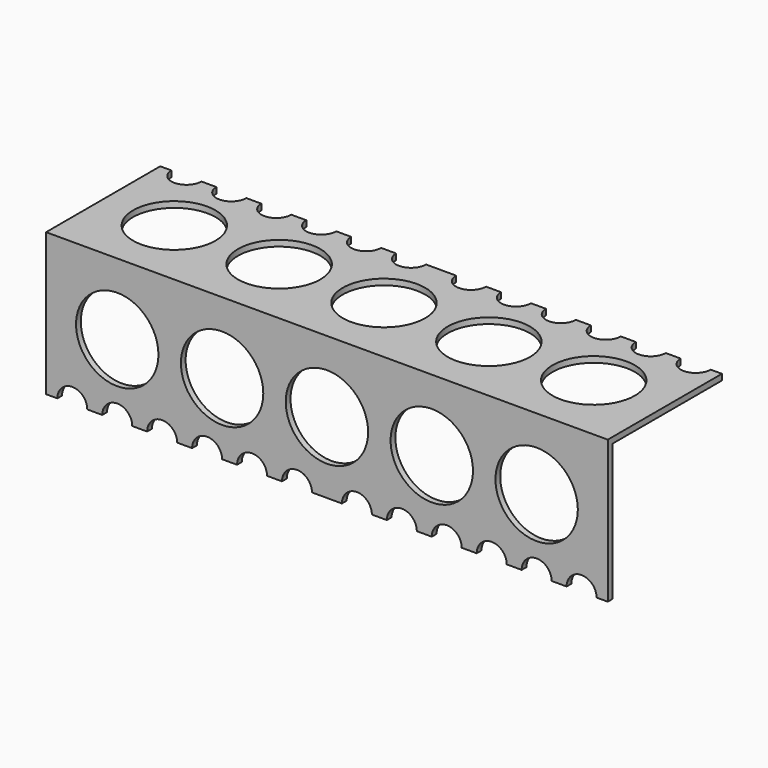
from build123d import *

# Parameters (mm, degrees)
F1_DEPTH = 150
F2_R     = 11
F3_DEPTH = 38.101
F4_R     = 11
F5_DEPTH = 38.101


with BuildPart() as f1:
    # F0 (on Right) → F1 (new body)
    with BuildSketch(Plane.YZ):
        Polygon((0, 38.1), (0, 0), (1.5875, 0), (1.5875, 36.5125), (38.1, 36.5125), (38.1, 38.1), align=None)
    extrude(amount=F1_DEPTH)

    # F2 (on face) → F3 (cut, through all)
    with BuildSketch(Plane.XZ):
        with Locations((75, 19.05)):
            Circle(F2_R)
        with Locations((103, 19.05)):
            Circle(F2_R)
        with Locations((131, 19.05)):
            Circle(F2_R)
        with Locations((47, 19.05)):
            Circle(F2_R)
        with Locations((19, 19.05)):
            Circle(F2_R)
        with BuildLine():
            ThreePointArc((87, 0), (83, 4), (79, 0))
            Line((79, 0), (87, 0))
        make_face()
        with BuildLine():
            Line((91, 0), (99, 0))
            ThreePointArc((99, 0), (95, 4), (91, 0))
        make_face()
        with BuildLine():
            Line((103, 0), (111, 0))
            ThreePointArc((111, 0), (107, 4), (103, 0))
        make_face()
        with BuildLine():
            Line((115, 0), (123, 0))
            ThreePointArc((123, 0), (119, 4), (115, 0))
        make_face()
        with BuildLine():
            Line((127, 0), (135, 0))
            ThreePointArc((135, 0), (131, 4), (127, 0))
        make_face()
        with BuildLine():
            Line((139, 0), (147, 0))
            ThreePointArc((147, 0), (143, 4), (139, 0))
        make_face()
        with BuildLine():
            ThreePointArc((71, 0), (67, 4), (63, 0))
            Line((63, 0), (71, 0))
        make_face()
        with BuildLine():
            ThreePointArc((11, 0), (7, 4), (3, 0))
            Line((3, 0), (11, 0))
        make_face()
        with BuildLine():
            ThreePointArc((35, 0), (31, 4), (27, 0))
            Line((27, 0), (35, 0))
        make_face()
        with BuildLine():
            ThreePointArc((23, 0), (19, 4), (15, 0))
            Line((15, 0), (23, 0))
        make_face()
        with BuildLine():
            Line((39, 0), (47, 0))
            ThreePointArc((47, 0), (43, 4), (39, 0))
        make_face()
        with BuildLine():
            Line((51, 0), (59, 0))
            ThreePointArc((59, 0), (55, 4), (51, 0))
        make_face()
    extrude(amount=-F3_DEPTH, mode=Mode.SUBTRACT)

    # F4 (on face) → F5 (cut, through all)
    with BuildSketch(Plane.XY.offset(38.1)):
        with Locations((75, 19.05)):
            Circle(F4_R)
        with Locations((47, 19.05)):
            Circle(F4_R)
        with Locations((19, 19.05)):
            Circle(F4_R)
        with Locations((103, 19.05)):
            Circle(F4_R)
        with Locations((131, 19.05)):
            Circle(F4_R)
        with BuildLine():
            ThreePointArc((64.900003, 41.50441), (67, 34.1), (69.099998, 41.50441))
            Line((69.099998, 41.50441), (64.900003, 41.50441))
        make_face()
        with BuildLine():
            Line((57.099998, 41.50441), (52.900003, 41.50441))
            ThreePointArc((52.900003, 41.50441), (55, 34.1), (57.099998, 41.50441))
        make_face()
        with BuildLine():
            Line((45.099998, 41.50441), (40.900003, 41.50441))
            ThreePointArc((40.900003, 41.50441), (43, 34.1), (45.099998, 41.50441))
        make_face()
        with BuildLine():
            Line((33.099998, 41.50441), (28.900003, 41.50441))
            ThreePointArc((28.900003, 41.50441), (31, 34.1), (33.099998, 41.50441))
        make_face()
        with BuildLine():
            Line((21.099998, 41.50441), (16.900003, 41.50441))
            ThreePointArc((16.900003, 41.50441), (19, 34.1), (21.099998, 41.50441))
        make_face()
        with BuildLine():
            Line((9.099998, 41.50441), (4.900003, 41.50441))
            ThreePointArc((4.900003, 41.50441), (7, 34.1), (9.099998, 41.50441))
        make_face()
        with BuildLine():
            ThreePointArc((80.900003, 41.50441), (83, 34.1), (85.099998, 41.50441))
            Line((85.099998, 41.50441), (80.900003, 41.50441))
        make_face()
        with BuildLine():
            ThreePointArc((140.900003, 41.50441), (143, 34.1), (145.099998, 41.50441))
            Line((145.099998, 41.50441), (140.900003, 41.50441))
        make_face()
        with BuildLine():
            ThreePointArc((116.900003, 41.50441), (119, 34.1), (121.099998, 41.50441))
            Line((121.099998, 41.50441), (116.900003, 41.50441))
        make_face()
        with BuildLine():
            ThreePointArc((128.900003, 41.50441), (131, 34.1), (133.099998, 41.50441))
            Line((133.099998, 41.50441), (128.900003, 41.50441))
        make_face()
        with BuildLine():
            Line((109.099998, 41.50441), (104.900003, 41.50441))
            ThreePointArc((104.900003, 41.50441), (107, 34.1), (109.099998, 41.50441))
        make_face()
        with BuildLine():
            Line((97.099998, 41.50441), (92.900003, 41.50441))
            ThreePointArc((92.900003, 41.50441), (95, 34.1), (97.099998, 41.50441))
        make_face()
    extrude(amount=-F5_DEPTH, mode=Mode.SUBTRACT)


solid = f1.part
